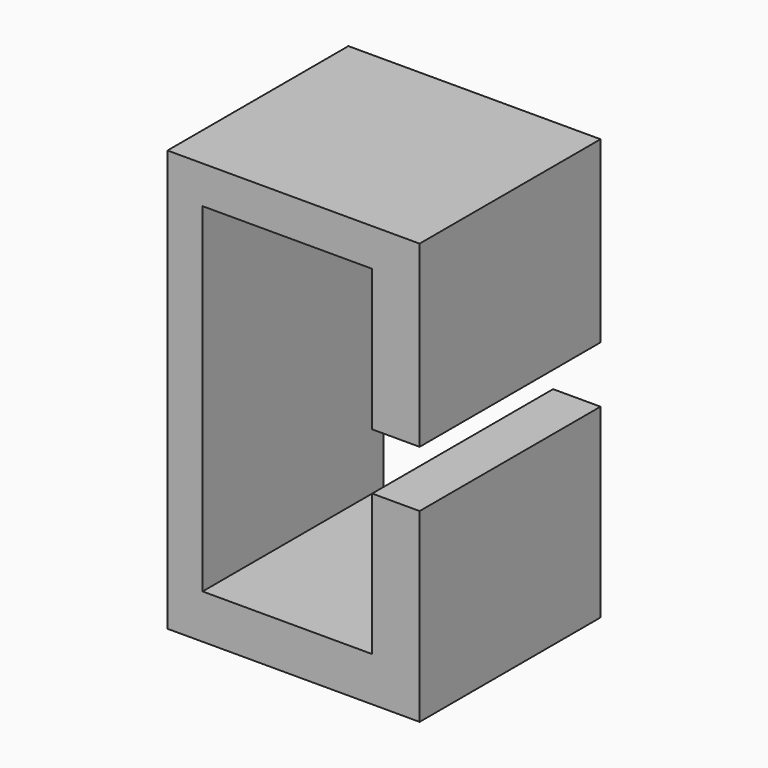
from build123d import *

# Parameters (mm, degrees)
F2_DEPTH = 25.4


with BuildPart() as f2:
    # F1 (on offset) → F2 (new body)
    with BuildSketch(Plane.XZ.offset(25.4)):
        Polygon((-12.7, -19.402778), (-12.7, 18.697222), (6.35, 18.697222), (6.35, 2.822222), (11.678541, 2.822222), (11.678541, 22.919137), (-16.641926, 22.919137), (-16.641926, -24.378963), (11.678541, -24.378963), (11.678541, -3.527778), (6.35, -3.527778), (6.35, -19.402778), align=None)
    extrude(amount=F2_DEPTH)


solid = f2.part
